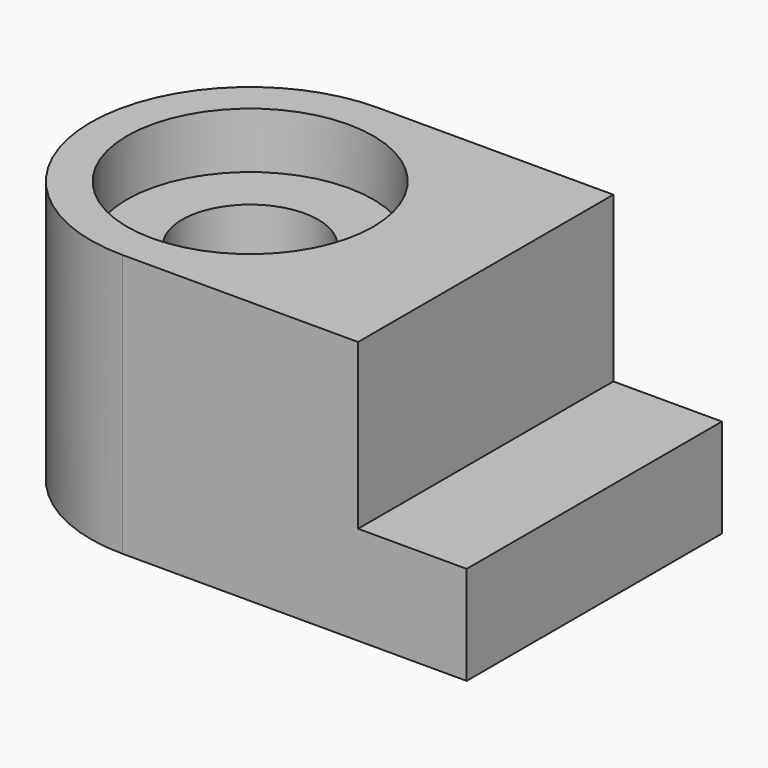
from build123d import *

# Parameters (mm, degrees)
F0_R     = 19.0157086471
F1_DEPTH = 40.64
F0_R_2   = 10.5259508952
F2_DEPTH = 32.004
F3_W     = 16.7762897909
F3_H     = 49.2964833975
F4_DEPTH = 25.4


with BuildPart() as f1:
    # F0 (on Top) → F1 (new body)
    with BuildSketch(Plane.XY):
        with BuildLine():
            Line((25.8096773177, -32.5201936066), (25.8096773177, 16.7762897909))
            Line((25.8096773177, 16.7762897909), (-27.3582581431, 16.7762897909))
            ThreePointArc((-27.3582581431, 16.7762897909), (-52.0064998418, -7.8719519079), (-27.3582581431, -32.5201936066))
            Line((-27.3582581431, -32.5201936066), (25.8096773177, -32.5201936066))
        make_face()
        with Locations((-27.3582581431, -7.8719519079)):
            Circle(F0_R, mode=Mode.SUBTRACT)
    extrude(amount=F1_DEPTH)

    # F0 (on Top) → F2 (join)
    with BuildSketch(Plane.XY):
        with Locations((-27.3582581431, -7.8719519079)):
            Circle(F0_R)
        with Locations((-27.3582581431, -7.8719519079)):
            Circle(F0_R_2, mode=Mode.SUBTRACT)
    extrude(amount=F2_DEPTH)

    # F3 (on face) → F4 (cut)
    with BuildSketch(Plane.XY.offset(40.64)):
        with Locations((17.4215324223, -7.8719519079)):
            Rectangle(F3_W, F3_H)
    extrude(amount=-F4_DEPTH, mode=Mode.SUBTRACT)


solid = f1.part
